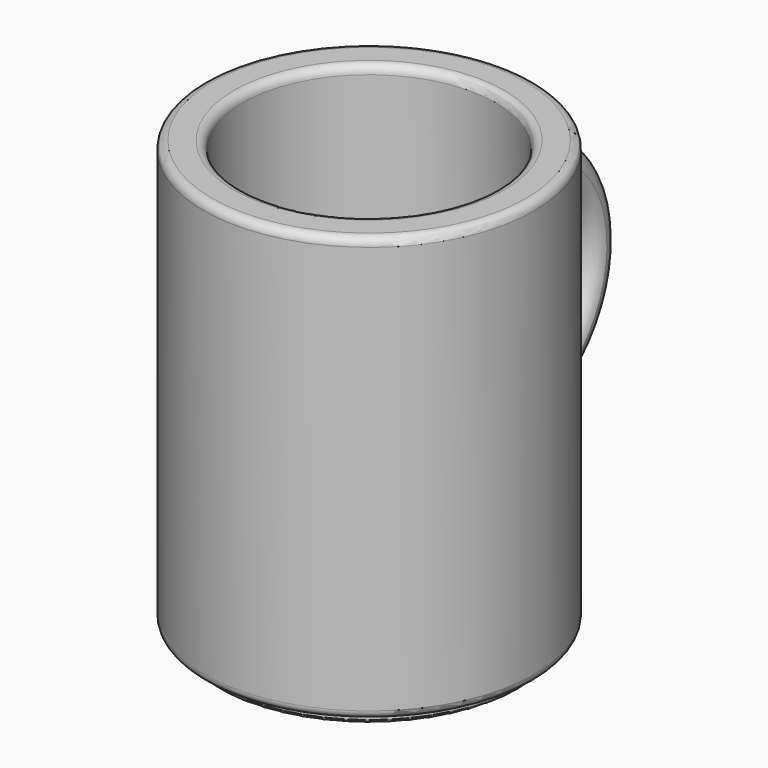
from build123d import *

# Parameters (mm, degrees)
F0_R     = 300
F1_DEPTH = 770
F2_R     = 230
F3_DEPTH = 700
F4_R     = 15
F5_R     = 270
F5_R_2   = 230
F6_DEPTH = 20
F7_R     = 5


with BuildPart() as f1:
    # F0 (on Top) → F1 (new body)
    with BuildSketch(Plane.XY):
        Circle(F0_R)
    extrude(amount=F1_DEPTH)

    # F2 (on face) → F3 (cut)
    with BuildSketch(Plane.XY.offset(770)):
        Circle(F2_R)
    extrude(amount=-F3_DEPTH, mode=Mode.SUBTRACT)

    # F4
    f4_edges = [f1.edges().sort_by_distance(p)[0] for p in [
        (-300, 0, 770),
        (-230, 0, 770),
        (-300, 0, 0),
    ]]
    fillet(f4_edges, radius=F4_R)

    # F5 (on face) → F6 (join)
    with BuildSketch(Plane(origin=(0, 0, 0), x_dir=(1, 0, 0), z_dir=(0, 0, -1))):
        Circle(F5_R)
        Circle(F5_R_2, mode=Mode.SUBTRACT)
    extrude(amount=F6_DEPTH)

    # F7
    f7_edges = [f1.edges().sort_by_distance(p)[0] for p in [
        (-270, 0, -20),
        (-230, 0, -20),
    ]]
    fillet(f7_edges, radius=F7_R)


with BuildPart() as f12:
    # F12: sweep along a path in F11
    with BuildLine(Plane.YZ) as f12_path:
        ThreePointArc((280.041266, 216.43436), (481.926647, 417.278558), (278.335223, 616.393175))
    # F10 (on offset) → F12 (sweep)
    with BuildSketch(Plane.XY.offset(550)):
        with BuildLine():
            ThreePointArc((0, 480.171301), (-28.284271, 411.88703), (40, 440.171301))
            ThreePointArc((40, 440.171301), (28.284271, 468.455573), (0, 480.171301))
        make_face()
    sweep(path=f12_path.line)


solid = Compound([f1.part, f12.part])
